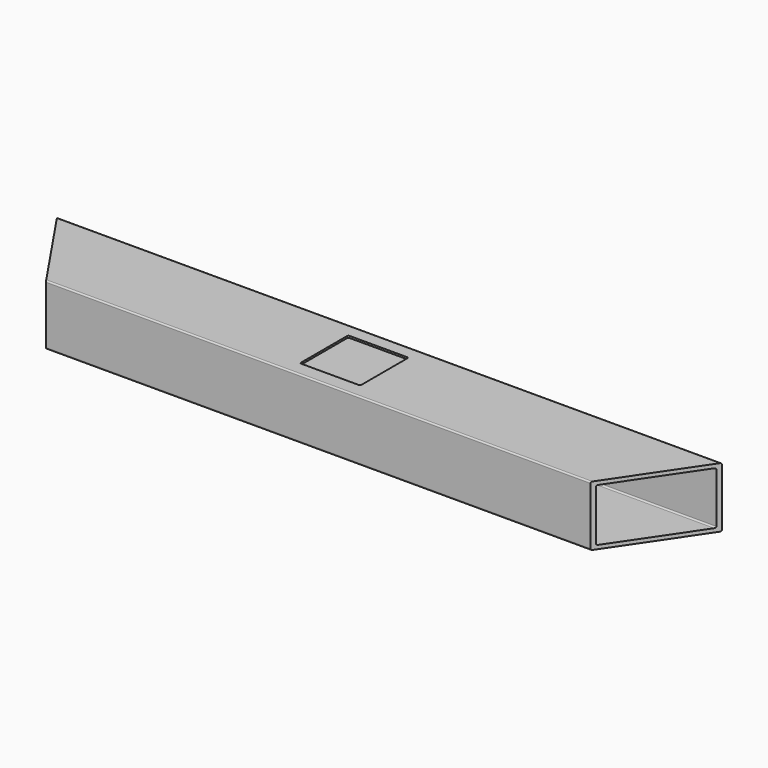
from build123d import *

# Parameters (mm, degrees)
F0_W      = 1120
F0_H      = 150
F1_DEPTH  = 50.8
F2_W      = 137.3
F2_H      = 88.9
F3_DEPTH  = 1120
F5_DEPTH  = 101.601
F7_DEPTH  = 101.601
F8_R      = 2.4
F9_W      = 101.6
F9_H      = 101.6
F10_DEPTH = 3.175
F11_R     = 2.5


with BuildPart() as f1:
    # F0 (on Top) → F1 (new body, symmetric)
    with BuildSketch(Plane.XY):
        Rectangle(F0_W, F0_H)
    extrude(amount=F1_DEPTH, both=True)

    # F2 (on face) → F3 (cut, through all)
    with BuildSketch(Plane(origin=(-560, 0, 0), x_dir=(0, -1, 0), z_dir=(-1, 0, 0))):
        Rectangle(F2_W, F2_H)
    extrude(amount=-F3_DEPTH, mode=Mode.SUBTRACT)

    # F4 (on face) → F5 (cut, through all)
    with BuildSketch(Plane.XY.offset(50.8)):
        Polygon((458.4, -75), (560, -75), (560, 75), align=None)
    extrude(amount=-F5_DEPTH, mode=Mode.SUBTRACT)

    # F6 (on face) → F7 (cut, through all)
    with BuildSketch(Plane.XY.offset(50.8)):
        Polygon((-560, 75), (-560, -75), (-458.4, -75), align=None)
    extrude(amount=-F7_DEPTH, mode=Mode.SUBTRACT)

    # F8
    f8_edges = [f1.edges().sort_by_distance(p)[0] for p in [
        (0, -75, 50.8),
        (0, -75, -50.8),
        (0, 75, -50.8),
        (0, 75, 50.8),
        (0, 68.65, -44.45),
        (0, 68.65, 44.45),
        (0, -68.65, 44.45),
        (0, -68.65, -44.45),
    ]]
    fillet(f8_edges, radius=F8_R)

    # F9 (on face) → F10 (cut)
    with BuildSketch(Plane.XY.offset(50.8)):
        with Locations((0, 0.8)):
            Rectangle(F9_W, F9_H)
    extrude(amount=-F10_DEPTH, mode=Mode.SUBTRACT)

    # F11
    f11_edges = [f1.edges().sort_by_distance(p)[0] for p in [
        (50.8, 51.6, 49.2125),
        (50.8, -50, 49.2125),
        (-50.8, -50, 49.2125),
        (-50.8, 51.6, 49.2125),
    ]]
    fillet(f11_edges, radius=F11_R)


solid = f1.part
